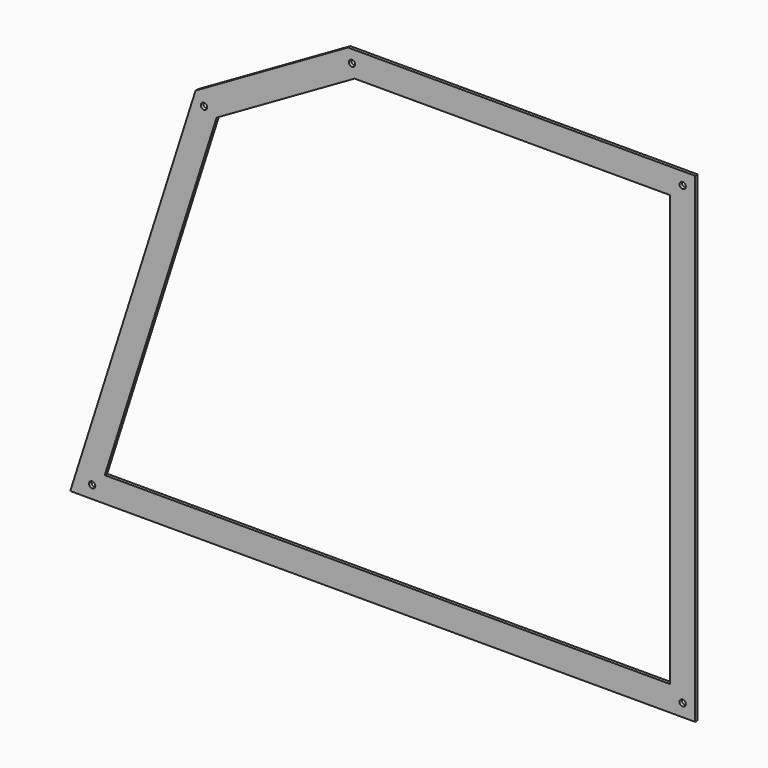
from build123d import *

# Parameters (mm, degrees)
F1_DEPTH      = 1.5875
F1_DEPTH_BACK = 1.5875
F2_R          = 3.175
F3_DEPTH      = 3.175


with BuildPart() as f1:
    # F0 (on Front) → F1 (new body, two sides)
    with BuildSketch(Plane.XZ) as f1_sk:
        Polygon((-504.102742, 396.776049), (-630.467122, 0), (0, 0), (0, 484.9876), (-350.397568, 484.9876), align=None)
        Polygon((-595.720752, 25.4), (-482.896606, 379.660585), (-343.626912, 459.5876), (-25.4, 459.5876), (-25.4, 25.4), align=None, mode=Mode.SUBTRACT)
    extrude(amount=F1_DEPTH)
    extrude(f1_sk.sketch, amount=-F1_DEPTH_BACK)

    # F2 (on face) → F3 (cut, through all)
    with BuildSketch(Plane.XZ.offset(1.5875)):
        with Locations((-12.7, 12.7)):
            Circle(F2_R)
        with Locations((-12.7, 472.2876)):
            Circle(F2_R)
        with Locations((-346.211818, 472.2876)):
            Circle(F2_R)
        with Locations((-495.596606, 385.59052)):
            Circle(F2_R)
        with Locations((-608.420752, 12.7)):
            Circle(F2_R)
    extrude(amount=-F3_DEPTH, mode=Mode.SUBTRACT)


solid = f1.part
